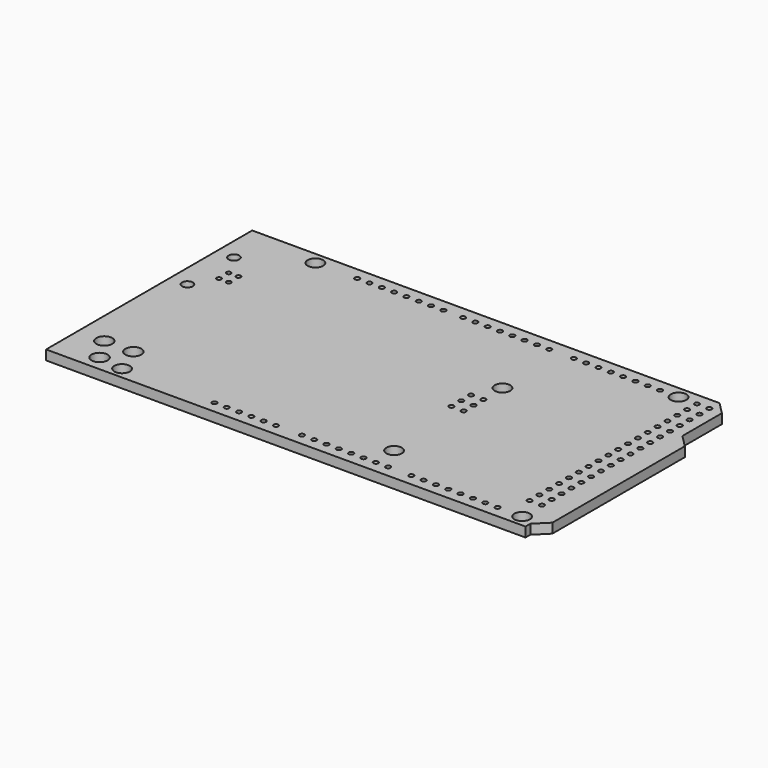
from build123d import *

# Parameters (mm, degrees)
PAD001002_DEPTH     = 2
SKETCH019_R         = 1.6
POCKET006_DEPTH     = 2.001
SKETCH015_R         = 1.65
POCKET014_DEPTH     = 2.001
SKETCH016_R         = 1.1
SKETCH016_R_2       = 0.475
POCKET011_DEPTH     = 2.001
SKETCH017_R         = 0.5
POCKET012_DEPTH     = 2.001
SKETCH007_R         = 0.5
POCKET005_DEPTH     = 2.001
SKETCH008_R         = 0.5
POCKET013_DEPTH     = 2.001
SKETCH009_R         = 0.5
POCKET015_DEPTH     = 2.001
SKETCH010_R         = 0.5
POCKET007_DEPTH     = 2.001
SKETCH011_R         = 0.5
POCKET008_DEPTH     = 2.001
SKETCH012_R         = 0.5
POCKET009_DEPTH     = 2.001
SKETCH013_R         = 0.5
POCKET010_DEPTH     = 2.001
LINEARPATTERN_COUNT = 18
LINEARPATTERN_PITCH = 2.54


with BuildPart() as part:
    # Sketch018 → Pad001002 (new body)
    with BuildSketch(Plane.XY):
        Polygon((-50.7275, -26.5825), (-50.7275, 26.5825), (45.6905, 26.5825), (48.1905, 24.0825), (48.1905, 13.8825), (50.7275, 11.3455), (50.7275, -22.8245), (48.1905, -25.3225), (48.1905, -26.5825), align=None)
    extrude(amount=PAD001002_DEPTH)

    # Sketch019 (on Face11 of Pad001002) → Pocket006 (cut, through all)
    with BuildSketch(Plane.XY.offset(2)):
        with Locations((-35.6964, 24.084)):
            Circle(SKETCH019_R)
        with Locations((39.234, 24.084)):
            Circle(SKETCH019_R)
        with Locations((-36.966, -24.176)):
            Circle(SKETCH019_R)
        with Locations((15.1, -19.1)):
            Circle(SKETCH019_R)
        with Locations((15.1, 8.844)):
            Circle(SKETCH019_R)
        with Locations((45.58, -24.18)):
            Circle(SKETCH019_R)
    extrude(amount=-POCKET006_DEPTH, mode=Mode.SUBTRACT)

    # Sketch015 (on Face5 of Pocket006) → Pocket014 (cut, through all)
    with BuildSketch(Plane.XY.offset(2)):
        with Locations((-45.25, -18.41)):
            Circle(SKETCH015_R)
        with Locations((-39.25, -18.41)):
            Circle(SKETCH015_R)
        with Locations((-42.243446, -23.38666)):
            Circle(SKETCH015_R)
    extrude(amount=-POCKET014_DEPTH, mode=Mode.SUBTRACT)

    # Sketch016 (on Face5 of Pocket014) → Pocket011 (cut, through all)
    with BuildSketch(Plane.XY.offset(2)):
        with Locations((-47.13, 17.38)):
            Circle(SKETCH016_R)
        with Locations((-47.13, 5.38)):
            Circle(SKETCH016_R)
        with Locations((-44.42, 12.64)):
            Circle(SKETCH016_R_2)
        with Locations((-42.42, 12.64)):
            Circle(SKETCH016_R_2)
        with Locations((-44.42, 10.14)):
            Circle(SKETCH016_R_2)
        with Locations((-42.42, 10.14)):
            Circle(SKETCH016_R_2)
    extrude(amount=-POCKET011_DEPTH, mode=Mode.SUBTRACT)

    # Sketch017 (on Face5 of Pocket011) → Pocket012 (cut, through all)
    with BuildSketch(Plane.XY.offset(2)):
        with Locations((12.6801, -1.3)):
            Circle(SKETCH017_R)
        with Locations((15.2201, -1.3)):
            Circle(SKETCH017_R)
        with Locations((15.2201, 1.24)):
            Circle(SKETCH017_R)
        with Locations((12.6801, 1.24)):
            Circle(SKETCH017_R)
        with Locations((12.6801, 3.78)):
            Circle(SKETCH017_R)
        with Locations((15.2201, 3.78)):
            Circle(SKETCH017_R)
    extrude(amount=-POCKET012_DEPTH, mode=Mode.SUBTRACT)

    # Sketch007 (on Face5 of Pocket012) → Pocket005 (cut, through all)
    with BuildSketch(Plane.XY.offset(2)):
        with Locations((-27.06, 24.084)):
            Circle(SKETCH007_R)
        with Locations((-24.52, 24.084)):
            Circle(SKETCH007_R)
        with Locations((-21.98, 24.084)):
            Circle(SKETCH007_R)
        with Locations((-19.44, 24.084)):
            Circle(SKETCH007_R)
        with Locations((-16.9, 24.084)):
            Circle(SKETCH007_R)
        with Locations((-14.36, 24.084)):
            Circle(SKETCH007_R)
        with Locations((-11.82, 24.084)):
            Circle(SKETCH007_R)
        with Locations((-9.28, 24.084)):
            Circle(SKETCH007_R)
    extrude(amount=-POCKET005_DEPTH, mode=Mode.SUBTRACT)

    # Sketch008 (on Face5 of Pocket005) → Pocket013 (cut, through all)
    with BuildSketch(Plane.XY.offset(2)):
        with Locations((-5.216, 24.084)):
            Circle(SKETCH008_R)
        with Locations((-2.676, 24.084)):
            Circle(SKETCH008_R)
        with Locations((-0.136, 24.084)):
            Circle(SKETCH008_R)
        with Locations((2.404, 24.084)):
            Circle(SKETCH008_R)
        with Locations((4.944, 24.084)):
            Circle(SKETCH008_R)
        with Locations((7.484, 24.084)):
            Circle(SKETCH008_R)
        with Locations((10.024, 24.084)):
            Circle(SKETCH008_R)
        with Locations((12.564, 24.084)):
            Circle(SKETCH008_R)
    extrude(amount=-POCKET013_DEPTH, mode=Mode.SUBTRACT)

    # Sketch009 (on Face5 of Pocket013) → Pocket015 (cut, through all)
    with BuildSketch(Plane.XY.offset(2)):
        with Locations((17.644, 24.084)):
            Circle(SKETCH009_R)
        with Locations((20.184, 24.084)):
            Circle(SKETCH009_R)
        with Locations((22.724, 24.084)):
            Circle(SKETCH009_R)
        with Locations((25.264, 24.084)):
            Circle(SKETCH009_R)
        with Locations((27.804, 24.084)):
            Circle(SKETCH009_R)
        with Locations((30.344, 24.084)):
            Circle(SKETCH009_R)
        with Locations((32.884, 24.084)):
            Circle(SKETCH009_R)
        with Locations((35.424, 24.084)):
            Circle(SKETCH009_R)
    extrude(amount=-POCKET015_DEPTH, mode=Mode.SUBTRACT)

    # Sketch010 (on Face5 of Pocket015) → Pocket007 (cut, through all)
    with BuildSketch(Plane.XY.offset(2)):
        with Locations((-17.916, -24.176)):
            Circle(SKETCH010_R)
        with Locations((-15.376, -24.176)):
            Circle(SKETCH010_R)
        with Locations((-12.836, -24.176)):
            Circle(SKETCH010_R)
        with Locations((-10.296, -24.176)):
            Circle(SKETCH010_R)
        with Locations((-7.756, -24.176)):
            Circle(SKETCH010_R)
        with Locations((-5.216, -24.176)):
            Circle(SKETCH010_R)
    extrude(amount=-POCKET007_DEPTH, mode=Mode.SUBTRACT)

    # Sketch011 (on Face5 of Pocket007) → Pocket008 (cut, through all)
    with BuildSketch(Plane.XY.offset(2)):
        with Locations((0.136, -24.176)):
            Circle(SKETCH011_R)
        with Locations((2.676, -24.176)):
            Circle(SKETCH011_R)
        with Locations((5.216, -24.176)):
            Circle(SKETCH011_R)
        with Locations((7.756, -24.176)):
            Circle(SKETCH011_R)
        with Locations((10.296, -24.176)):
            Circle(SKETCH011_R)
        with Locations((12.836, -24.176)):
            Circle(SKETCH011_R)
        with Locations((15.376, -24.176)):
            Circle(SKETCH011_R)
        with Locations((17.916, -24.176)):
            Circle(SKETCH011_R)
    extrude(amount=-POCKET008_DEPTH, mode=Mode.SUBTRACT)

    # Sketch012 (on Face5 of Pocket008) → Pocket009 (cut, through all)
    with BuildSketch(Plane.XY.offset(2)):
        with Locations((22.724, -24.176)):
            Circle(SKETCH012_R)
        with Locations((25.264, -24.176)):
            Circle(SKETCH012_R)
        with Locations((27.804, -24.176)):
            Circle(SKETCH012_R)
        with Locations((30.344, -24.176)):
            Circle(SKETCH012_R)
        with Locations((32.884, -24.176)):
            Circle(SKETCH012_R)
        with Locations((35.424, -24.176)):
            Circle(SKETCH012_R)
        with Locations((37.964, -24.176)):
            Circle(SKETCH012_R)
        with Locations((40.504, -24.176)):
            Circle(SKETCH012_R)
    extrude(amount=-POCKET009_DEPTH, mode=Mode.SUBTRACT)

    # Sketch013 (on Face5 of Pocket009) → Pocket010 (cut, through all)
    with BuildSketch(Plane.XY.offset(2)):
        with Locations((43.044, 24.084)):
            Circle(SKETCH013_R)
        with Locations((45.584, 24.084)):
            Circle(SKETCH013_R)
    pocket010 = extrude(amount=-POCKET010_DEPTH, mode=Mode.SUBTRACT)

    # LinearPattern: Pocket010 ×18
    with Locations(*[(0, -i * LINEARPATTERN_PITCH, 0) for i in range(1, LINEARPATTERN_COUNT)]):
        add(pocket010, mode=Mode.SUBTRACT)


solid = part.part
